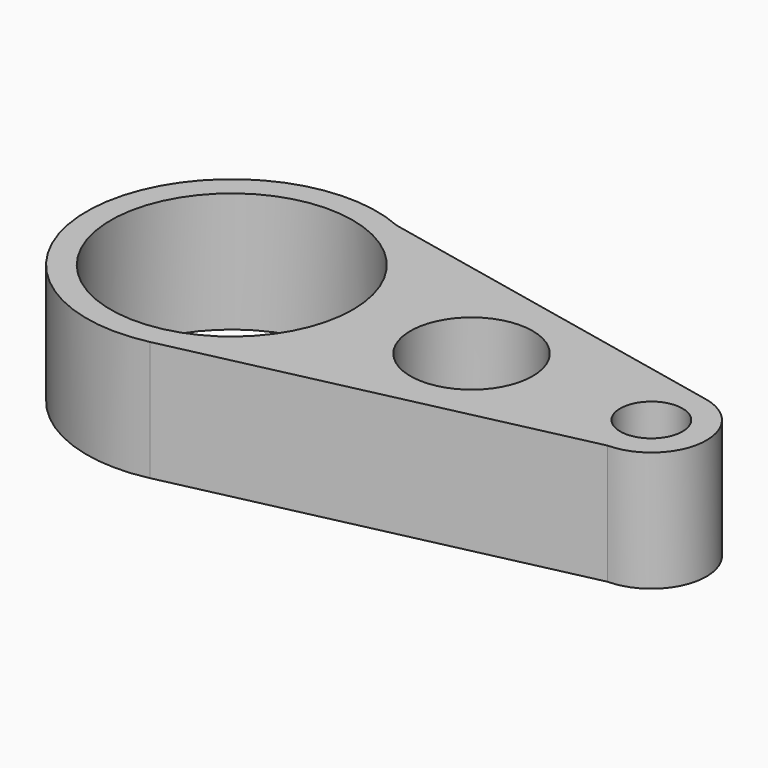
from build123d import *

# Parameters (mm, degrees)
F0_R     = 10.1
F0_R_2   = 5.1
F0_R_3   = 2.6
F1_DEPTH = 10


with BuildPart() as f1:
    # F0 (on Top) → F1 (new body)
    with BuildSketch(Plane.XY):
        with BuildLine():
            Line((-11.400675, -11.764416), (21.008744, -4.555169))
            ThreePointArc((21.008744, -4.555169), (25.548914, -0.415424), (21.923581, 4.54518))
            Line((21.923581, 4.54518), (-9.130074, 11.111259))
            ThreePointArc((-9.130074, 11.111259), (-26.068849, 1.242048), (-11.400675, -11.764416))
        make_face()
        with Locations((-14.028018, 0.046895)):
            Circle(F0_R, mode=Mode.SUBTRACT)
        with Locations((5.971982, 0.046895)):
            Circle(F0_R_2, mode=Mode.SUBTRACT)
        with Locations((20.971982, 0.044684)):
            Circle(F0_R_3, mode=Mode.SUBTRACT)
    extrude(amount=F1_DEPTH)


solid = f1.part
